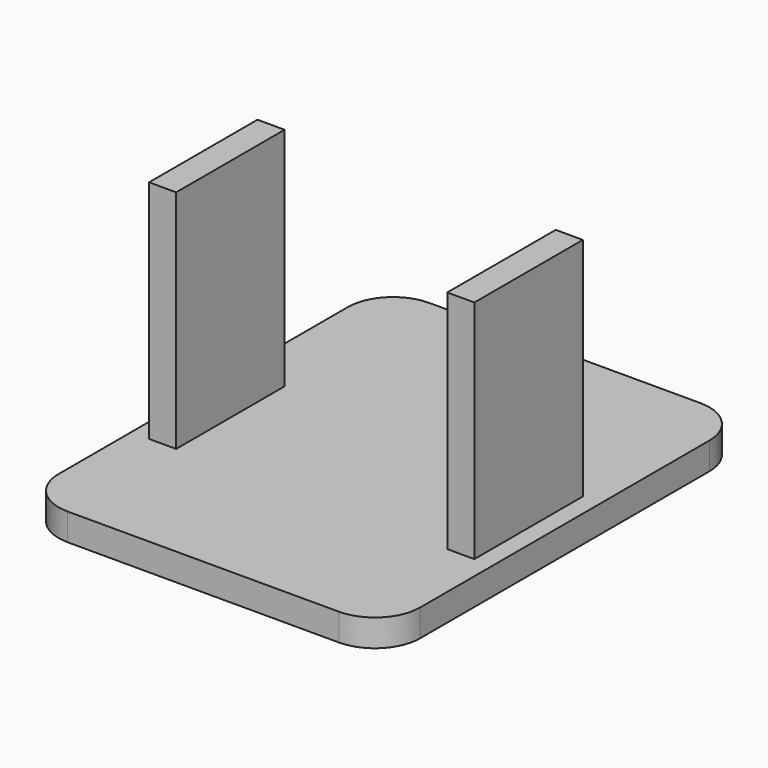
from build123d import *

# Parameters (mm, degrees)
F1_DEPTH = 3
F2_W     = 3
F2_H     = 15
F3_DEPTH = 25


with BuildPart() as f1:
    # F0 (on Top) → F1 (new body)
    with BuildSketch(Plane.XY):
        with BuildLine():
            ThreePointArc((0, 5), (1.464466, 1.464466), (5, 0))
            Line((5, 0), (35, 0))
            ThreePointArc((35, 0), (38.535534, 1.464466), (40, 5))
            Line((40, 5), (40, 45))
            ThreePointArc((40, 45), (38.535534, 48.535534), (35, 50))
            Line((35, 50), (5, 50))
            ThreePointArc((5, 50), (1.464466, 48.535534), (0, 45))
            Line((0, 45), (0, 5))
        make_face()
    extrude(amount=F1_DEPTH)

    # F2 (on face) → F3 (join)
    with BuildSketch(Plane.XY.offset(3)):
        with Locations((36.5, 22.5)):
            Rectangle(F2_W, F2_H)
        with Locations((3.5, 22.5)):
            Rectangle(F2_W, F2_H)
    extrude(amount=F3_DEPTH)


solid = f1.part
